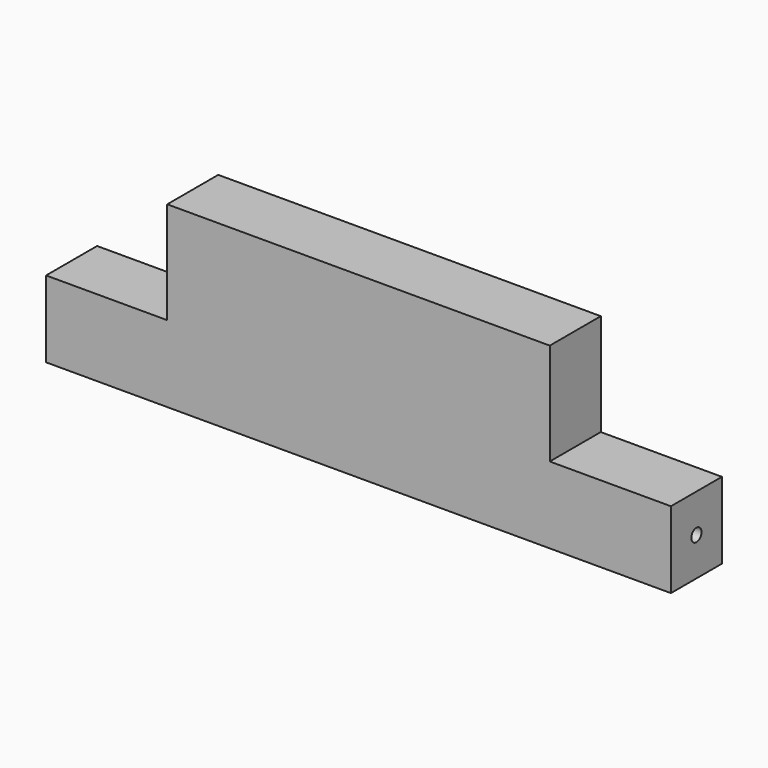
from build123d import *

# Parameters (mm, degrees)
F1_DEPTH = 25
F3_D     = 5


with BuildPart() as f1:
    # F0 (on Front) → F1 (new body)
    with BuildSketch(Plane.XZ):
        Polygon((-122.5, 30), (-122.5, 0), (0, 0), (0, 70), (-75, 70), (-75, 30), align=None)
        Polygon((0, 70), (0, 0), (122.5, 0), (122.5, 30), (75, 30), (75, 70), align=None)
    extrude(amount=F1_DEPTH)

    # F3 (through all)
    with Locations(Plane.YZ.offset(122.5)):
        with Locations((-12.5, 15)):
            Hole(F3_D / 2)


solid = f1.part
